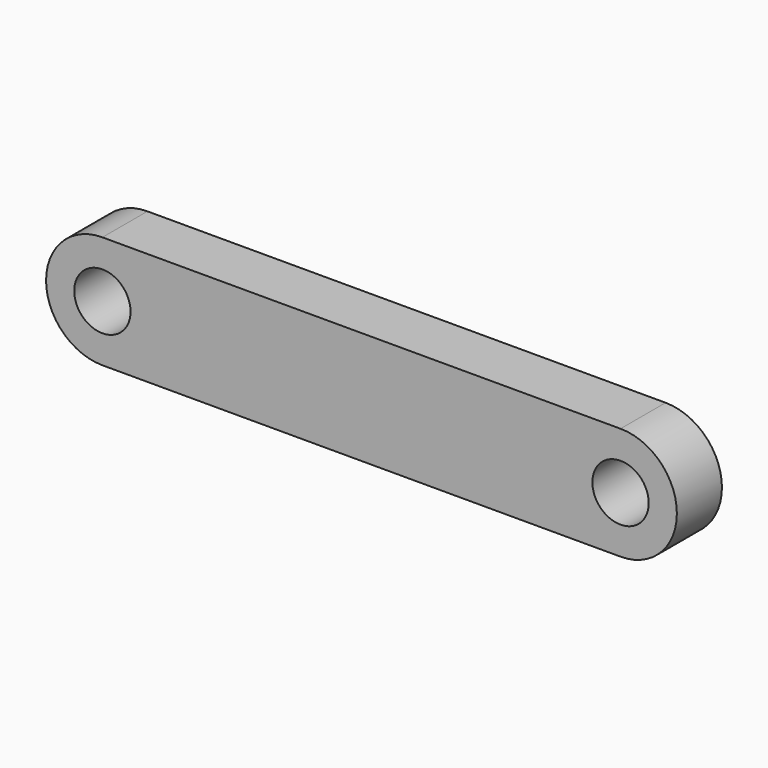
from build123d import *

# Parameters (mm, degrees)
F0_R     = 3.175
F1_DEPTH = 3.175


with BuildPart() as f1:
    # F0 (on Front) → F1 (new body, symmetric)
    with BuildSketch(Plane.XZ):
        with BuildLine():
            Line((0, 6.35), (-29.21, 6.35))
            ThreePointArc((-29.21, 6.35), (-35.56, 0), (-29.21, -6.35))
            Line((-29.21, -6.35), (0, -6.35))
            Line((0, -6.35), (29.21, -6.35))
            ThreePointArc((29.21, -6.35), (35.56, 0), (29.21, 6.35))
            Line((29.21, 6.35), (0, 6.35))
        make_face()
        with Locations((-29.21, 0)):
            Circle(F0_R, mode=Mode.SUBTRACT)
        with Locations((29.21, 0)):
            Circle(F0_R, mode=Mode.SUBTRACT)
    extrude(amount=F1_DEPTH, both=True)


solid = f1.part
